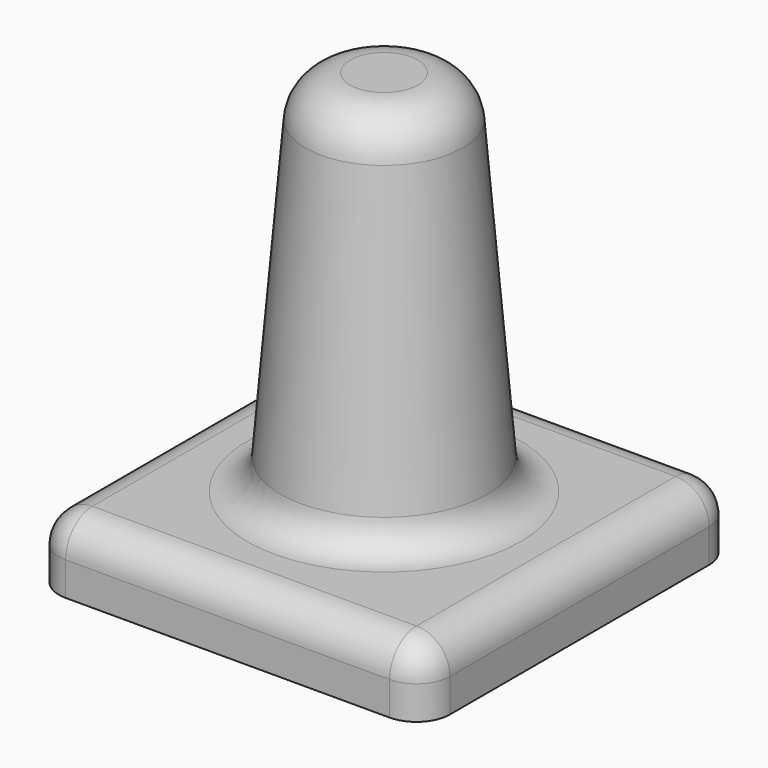
from build123d import *

# Parameters (mm, degrees)
F0_W     = 35
F0_H     = 35
F0_R     = 7.96
F1_DEPTH = 6
F2_R     = 9.46
F4_R     = 6.71
F6_R     = 4
F7_R     = 3


with BuildPart() as f1:
    # F0 (on Top) → F1 (new body)
    with BuildSketch(Plane.XY):
        Rectangle(F0_W, F0_H)
        Circle(F0_R, mode=Mode.SUBTRACT)
        Circle(F0_R)
    extrude(amount=F1_DEPTH)

    # F2 (on face) → F5 section 0
    with BuildSketch(Plane.XY.offset(6)):
        Circle(F2_R)
    # F4 (on offset) → F5 section 1
    with BuildSketch(Plane.XY.offset(39)):
        Circle(F4_R)
    loft()

    # F6
    f6_edges = [f1.edges().sort_by_distance(p)[0] for p in [
        (-6.71, 0, 39),
    ]]
    fillet(f6_edges, radius=F6_R)

    # F7
    f7_edges = [f1.edges().sort_by_distance(p)[0] for p in [
        (0, 17.5, 6),
        (17.5, 0, 6),
        (-17.5, 0, 6),
        (0, -17.5, 6),
        (-9.46, 0, 6),
        (-17.5, -17.5, 3),
        (-17.5, 17.5, 3),
        (17.5, -17.5, 3),
        (17.5, 17.5, 3),
    ]]
    fillet(f7_edges, radius=F7_R)


solid = f1.part
